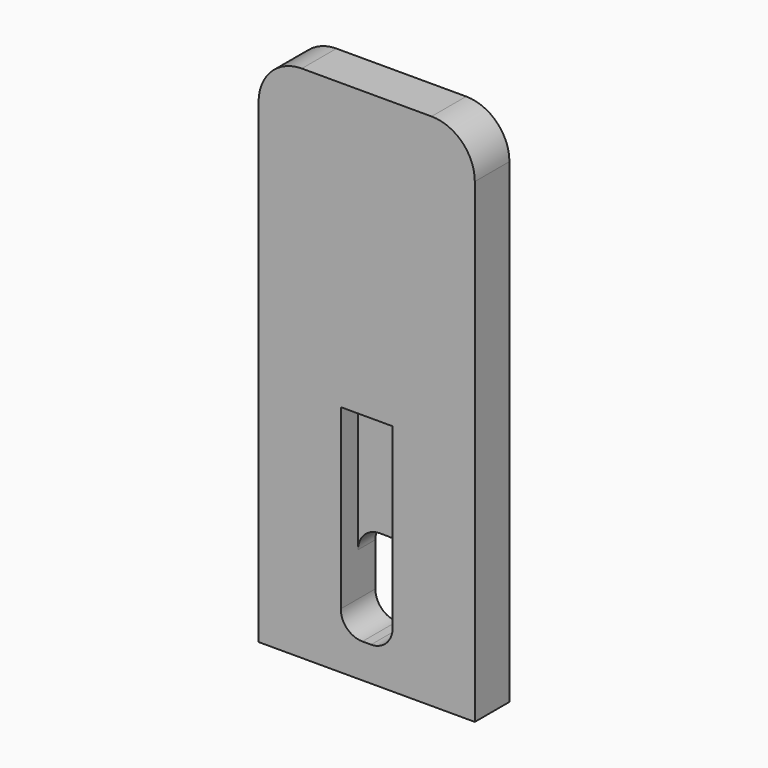
from build123d import *

# Parameters (mm, degrees)
F1_DEPTH = 10
F3_DEPTH = 11
F4_W     = 12
F4_H     = 33.18387
F5_DEPTH = 5


with BuildPart() as f1:
    # F0 (on Front) → F1 (new body)
    with BuildSketch(Plane.XZ):
        with BuildLine():
            ThreePointArc((25, 50), (22.071068, 57.071068), (15, 60))
            Line((15, 60), (-15, 60))
            ThreePointArc((-15, 60), (-22.071068, 57.071068), (-25, 50))
            Line((-25, 50), (-25, -60))
            Line((-25, -60), (25, -60))
            Line((25, -60), (25, 50))
        make_face()
    extrude(amount=F1_DEPTH)

    # F2 (on face) → F3 (cut)
    with BuildSketch(Plane.XZ.offset(10)):
        with BuildLine():
            Line((1, -32.074185), (-1, -32.074185))
            ThreePointArc((-1, -32.074185), (-4.535534, -33.538651), (-6, -37.074185))
            Line((-6, -37.074185), (-6, -47.074185))
            ThreePointArc((-6, -47.074185), (-4.535534, -50.609719), (-1, -52.074185))
            Line((-1, -52.074185), (1, -52.074185))
            ThreePointArc((1, -52.074185), (4.535534, -50.609719), (6, -47.074185))
            Line((6, -47.074185), (6, -37.074185))
            ThreePointArc((6, -37.074185), (4.535534, -33.538651), (1, -32.074185))
        make_face()
    extrude(amount=-F3_DEPTH, mode=Mode.SUBTRACT)

    # F4 (on face) → F5 (cut)
    with BuildSketch(Plane.XZ.offset(10)):
        with Locations((0, -22.583467)):
            Rectangle(F4_W, F4_H)
    extrude(amount=-F5_DEPTH, mode=Mode.SUBTRACT)


solid = f1.part
